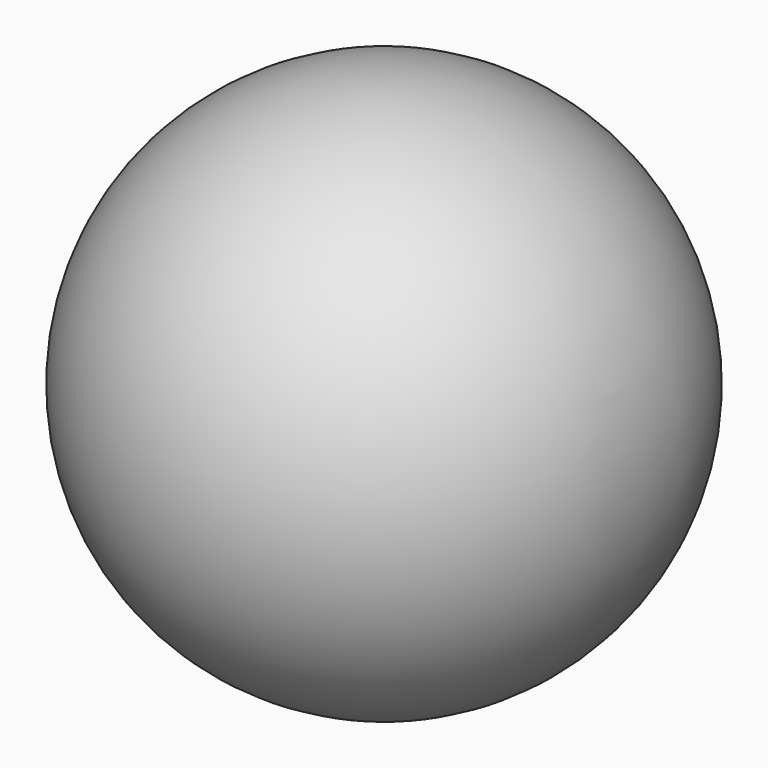
from build123d import *


with BuildPart() as part:
    # sphere → sphere (revolve)
    with BuildSketch(Plane.XZ):
        with BuildLine():
            ThreePointArc((0, -100), (100, 0), (0, 100))
            Line((0, 100), (0, -100))
        make_face()
    revolve(axis=Axis((0, 0, 0), (0, 0, 1)))


solid = part.part
